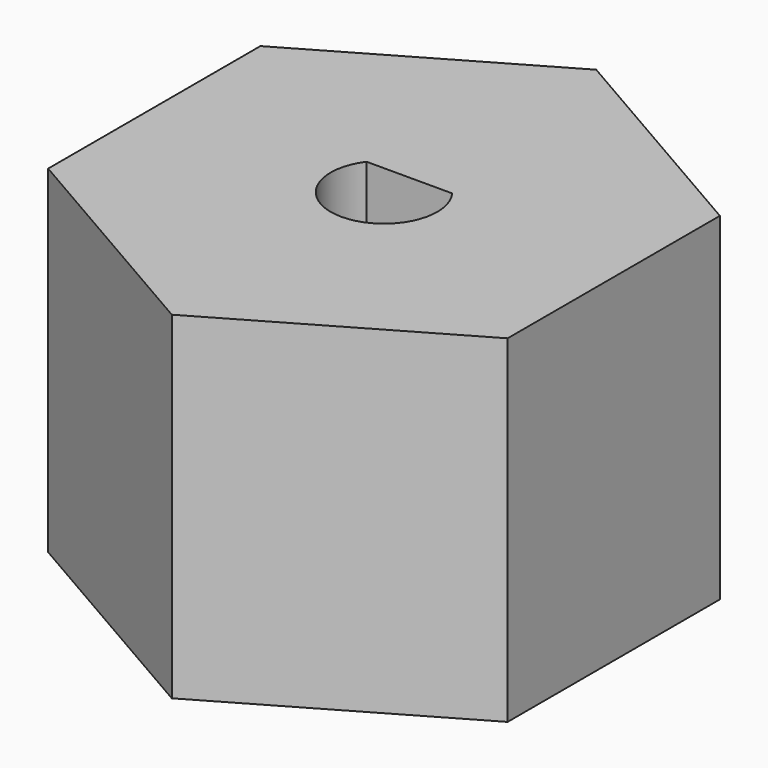
from build123d import *

# Parameters (mm, degrees)
F1_DEPTH = 9.3345


with BuildPart() as f1:
    # F0 (on Top) → F1 (new body)
    with BuildSketch(Plane.XY):
        Polygon((6.35, 3.666174), (0, 7.332348), (-6.35, 3.666174), (-6.35, -3.666174), (0, -7.332348), (6.35, -3.666174), align=None)
        with BuildLine():
            ThreePointArc((1.184237, 0.8763), (0, -1.4732), (-1.184237, 0.8763))
            Line((-1.184237, 0.8763), (1.184237, 0.8763))
        make_face(mode=Mode.SUBTRACT)
    extrude(amount=F1_DEPTH)


solid = f1.part
